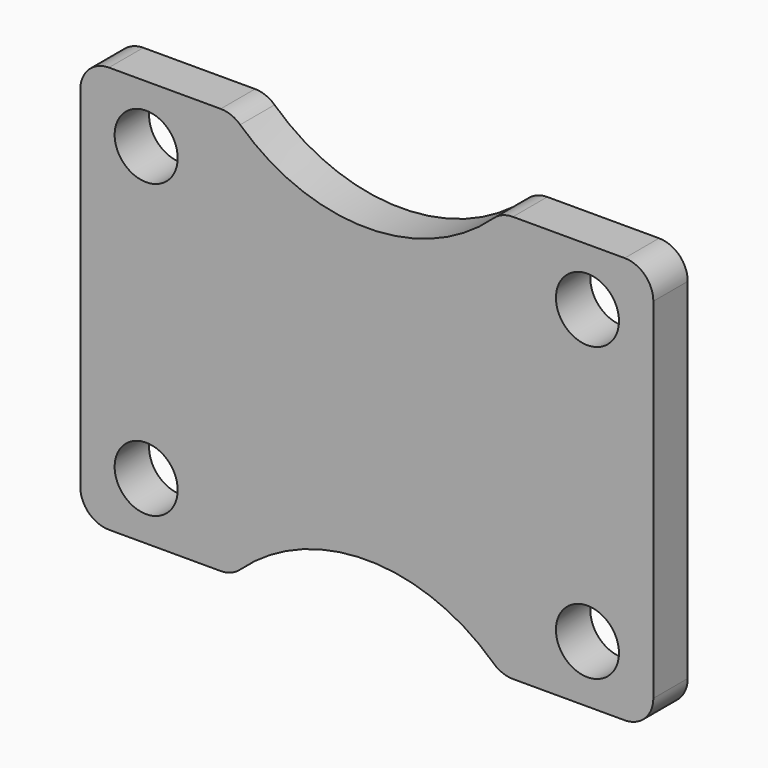
from build123d import *

# Parameters (mm, degrees)
F0_W     = 20
F0_H     = 14.2
F1_DEPTH = 1.5
F2_R     = 1.1
F3_DEPTH = 1.5
F4_R     = 1


with BuildPart() as f1:
    # F0 (on Front) → F1 (new body)
    with BuildSketch(Plane.XZ):
        with Locations((10, 7.1)):
            Rectangle(F0_W, F0_H)
    extrude(amount=F1_DEPTH)

    # F2 (on face) → F3 (cut, through all)
    with BuildSketch(Plane.XZ.offset(1.5)):
        with Locations((2.3, 12.2)):
            Circle(F2_R)
        with Locations((17.7, 12.2)):
            Circle(F2_R)
        with Locations((2.3, 2)):
            Circle(F2_R)
        with Locations((17.7, 2)):
            Circle(F2_R)
        with BuildLine():
            Line((14.6904157598, 14.2), (5.3095842402, 14.2))
            ThreePointArc((5.3095842402, 14.2), (10, 12.2), (14.6904157598, 14.2))
        make_face()
        with BuildLine():
            ThreePointArc((14.6904157598, 0), (10, 2), (5.3095842402, 0))
            Line((5.3095842402, 0), (14.6904157598, 0))
        make_face()
    extrude(amount=-F3_DEPTH, mode=Mode.SUBTRACT)

    # F4
    f4_edges = [f1.edges().sort_by_distance(p)[0] for p in [
        (20, -0.75, 14.2),
        (20, -0.75, 0),
        (0, -0.75, 14.2),
        (0, -0.75, 0),
        (5.309584, -0.75, 14.2),
        (14.690416, -0.75, 14.2),
        (5.309584, -0.75, 0),
        (14.690416, -0.75, 0),
    ]]
    fillet(f4_edges, radius=F4_R)


solid = f1.part
